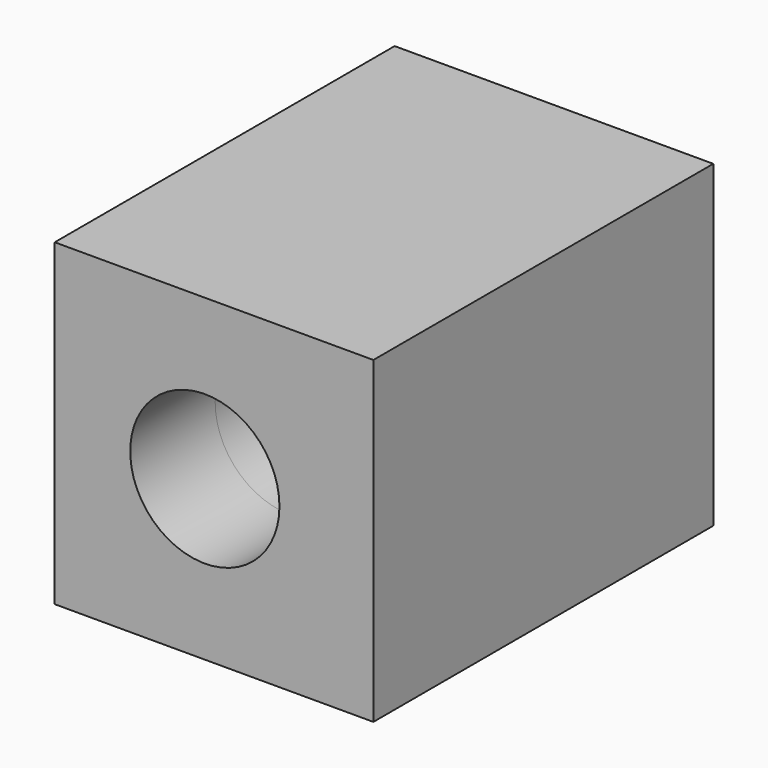
from build123d import *

# Parameters (mm, degrees)
F0_W      = 76.2
F0_H      = 76.2
F0_R      = 17.844917
F1_DEPTH  = 76.2
F1_FACE_W = 76.2
F1_FACE_H = 76.2
F1_FACE_R = 17.844917
F2_DEPTH  = 25.4


with BuildPart() as f1:
    # F0 (on Front) → F1 (new body)
    with BuildSketch(Plane.XZ):
        with Locations((38.1, 38.1)):
            Rectangle(F0_W, F0_H)
        with Locations((35.895728, 38.071226)):
            Circle(F0_R, mode=Mode.SUBTRACT)
    extrude(amount=F1_DEPTH)

    # F0 (on Front) + F1_face (on face) → F2 (join)
    with BuildSketch(Plane.XZ):
        with Locations((38.1, 38.1)):
            Rectangle(F0_W, F0_H)
        with Locations((35.895728, 38.071226)):
            Circle(F0_R, mode=Mode.SUBTRACT)
    with BuildSketch(Plane(origin=(38.558836, -76.2, 38.105989), x_dir=(1, 0, 0), z_dir=(0, -1, 0))):
        with Locations((-0.458836, -0.005989)):
            Rectangle(F1_FACE_W, F1_FACE_H)
        with Locations((-2.663109, -0.034763)):
            Circle(F1_FACE_R, mode=Mode.SUBTRACT)
    extrude(amount=F2_DEPTH)


solid = f1.part
